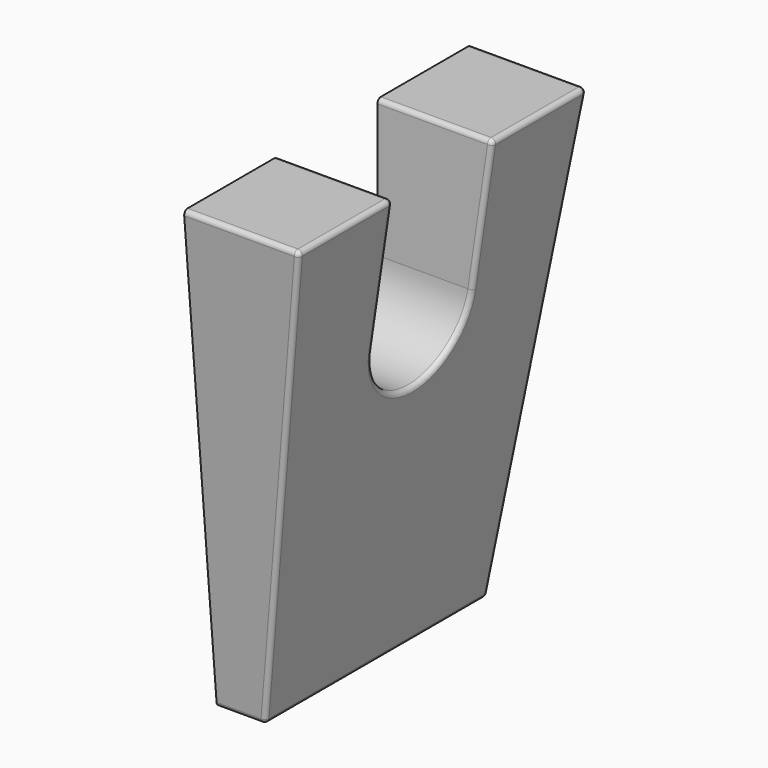
from build123d import *

# Parameters (mm, degrees)
CYLINDER_R           = 15
CYLINDER_DEPTH       = 100
CYLINDER_PITCH_ANGLE = 90
BOX005_W             = 100
BOX005_H             = 30
BOX005_DEPTH         = 30
BOX004_W             = 40
BOX004_H             = 40
BOX004_DEPTH         = 120
BOX004_ROLL_ANGLE    = -5.2
BOX003_W             = 40
BOX003_H             = 40
BOX003_DEPTH         = 120
BOX003_ROLL_ANGLE    = 5.2
BOX001_W             = 19
BOX001_H             = 100
BOX001_DEPTH         = 110
BOX001_PITCH_ANGLE   = 8.4
BOX_W                = 25
BOX_H                = 80
BOX_DEPTH            = 100
THICKNESS_T          = 1


with BuildPart() as cylinder:
    # Cylinder → Cylinder (new body)
    with BuildSketch(Plane.XY):
        Circle(CYLINDER_R)
    extrude(amount=CYLINDER_DEPTH)


with BuildPart() as cylinder_1:
    # Cylinder pitch: moved
    add(cylinder.part.rotate(Axis((0, 0, 0), (0, 1, 0)), CYLINDER_PITCH_ANGLE))


with BuildPart() as cylinder_2:
    # Cylinder placement: moved
    add(cylinder_1.part.moved(Location((0, 40, 70))))


with BuildPart() as fusion:
    # Box005 → Box005 (new body)
    with BuildSketch(Plane(origin=(0, 25, 70), x_dir=(1, 0, 0), z_dir=(0, 0, 1))):
        with Locations((50, 15)):
            Rectangle(BOX005_W, BOX005_H)
    extrude(amount=BOX005_DEPTH)

    # Fusion: union Cylinder
    add(cylinder_2.part)


with BuildPart() as cube002:
    # Box004 → Box004 (new body)
    with BuildSketch(Plane.XY):
        with Locations((20, 20)):
            Rectangle(BOX004_W, BOX004_H)
    extrude(amount=BOX004_DEPTH)


with BuildPart() as cube002_1:
    # Box004 roll: moved
    add(cube002.part.rotate(Axis((0, 0, 0), (1, 0, 0)), BOX004_ROLL_ANGLE))


with BuildPart() as cube002_2:
    # Box004 placement: moved
    add(cube002_1.part.moved(Location((0, 70, -4))))


with BuildPart() as cube003:
    # Box003 → Box003 (new body)
    with BuildSketch(Plane.XY):
        with Locations((20, 20)):
            Rectangle(BOX003_W, BOX003_H)
    extrude(amount=BOX003_DEPTH)


with BuildPart() as cube003_1:
    # Box003 roll: moved
    add(cube003.part.rotate(Axis((0, 0, 0), (1, 0, 0)), BOX003_ROLL_ANGLE))


with BuildPart() as cube003_2:
    # Box003 placement: moved
    add(cube003_1.part.moved(Location((0, -30, -4))))


with BuildPart() as cube001:
    # Box001 → Box001 (new body)
    with BuildSketch(Plane.XY):
        with Locations((9.5, 50)):
            Rectangle(BOX001_W, BOX001_H)
    extrude(amount=BOX001_DEPTH)


with BuildPart() as cube001_1:
    # Box001 pitch: moved
    add(cube001.part.rotate(Axis((0, 0, 0), (0, 1, 0)), BOX001_PITCH_ANGLE))


with BuildPart() as cube001_2:
    # Box001 placement: moved
    add(cube001_1.part.moved(Location((10, 0, 0))))


with BuildPart() as thickness:
    # Box → Box (new body)
    with BuildSketch(Plane.XY):
        with Locations((12.5, 40)):
            Rectangle(BOX_W, BOX_H)
    extrude(amount=BOX_DEPTH)

    # Cut: cut Cube001
    add(cube001_2.part, mode=Mode.SUBTRACT)

    # Cut001: cut Cube003
    add(cube003_2.part, mode=Mode.SUBTRACT)

    # Cut002: cut Cube002
    add(cube002_2.part, mode=Mode.SUBTRACT)

    # Cut003: cut Fusion
    add(fusion.part, mode=Mode.SUBTRACT)

    # Thickness
    thickness_openings = [thickness.faces().sort_by_distance(p)[0] for p in [
        (0, 40.100786, 46.297736),
    ]]
    offset(amount=THICKNESS_T, openings=thickness_openings)


solid = thickness.part
